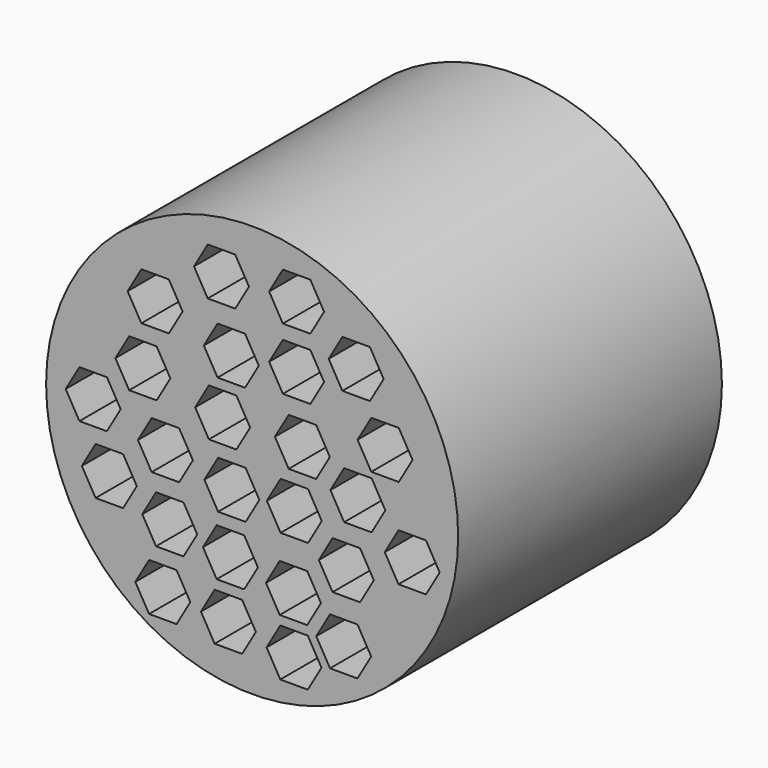
from build123d import *

# Parameters (mm, degrees)
F0_R     = 47.625
F1_DEPTH = 76.2
F3_DEPTH = 76.201


with BuildPart() as f1:
    # F0 (on Front) → F1 (new body)
    with BuildSketch(Plane.XZ):
        Circle(F0_R)
    extrude(amount=F1_DEPTH)

    # F2 (on face) → F3 (cut, through all)
    with BuildSketch(Plane.XZ.offset(76.2)):
        Polygon((-16.073533, 25.021508), (-19.248533, 30.52077), (-25.598533, 30.52077), (-28.773533, 25.021508), (-25.598533, 19.522247), (-19.248533, 19.522247), align=None)
        Polygon((-0.733869, 35.056195), (-3.908869, 40.555456), (-10.258869, 40.555456), (-13.433869, 35.056195), (-10.258869, 29.556934), (-3.908869, 29.556934), align=None)
        Polygon((16.633373, 35.590573), (13.458373, 41.089834), (7.108373, 41.089834), (3.933373, 35.590573), (7.108373, 30.091312), (13.458373, 30.091312), align=None)
        Polygon((1.537231, 19.692863), (-1.637769, 25.192124), (-7.987769, 25.192124), (-11.162769, 19.692863), (-7.987769, 14.193602), (-1.637769, 14.193602), align=None)
        Polygon((16.633373, 21.295993), (13.458373, 26.795255), (7.108373, 26.795255), (3.933373, 21.295993), (7.108373, 15.796732), (13.458373, 15.796732), align=None)
        Polygon((30.393575, 26.372573), (27.218575, 31.871834), (20.868575, 31.871834), (17.693575, 26.372573), (20.868575, 20.873312), (27.218575, 20.873312), align=None)
        Polygon((37.073285, 12.077994), (33.898285, 17.577256), (27.548285, 17.577256), (24.373285, 12.077994), (27.548285, 6.578733), (33.898285, 6.578733), align=None)
        Polygon((17.969316, 6.467039), (14.794316, 11.9663), (8.444316, 11.9663), (5.269316, 6.467039), (8.444316, 0.967778), (14.794316, 0.967778), align=None)
        Polygon((-0.466681, 6.467039), (-3.641681, 11.9663), (-9.991681, 11.9663), (-13.166681, 6.467039), (-9.991681, 0.967778), (-3.641681, 0.967778), align=None)
        Polygon((-18.902677, 10.474864), (-22.077677, 15.974126), (-28.427677, 15.974126), (-31.602677, 10.474864), (-28.427677, 4.975603), (-22.077677, 4.975603), align=None)
        Polygon((-30.391778, 0.455301), (-33.566778, 5.954563), (-39.916778, 5.954563), (-43.091778, 0.455301), (-39.916778, -5.04396), (-33.566778, -5.04396), align=None)
        Polygon((-26.65114, -13.972871), (-29.82614, -8.47361), (-36.17614, -8.47361), (-39.35114, -13.972871), (-36.17614, -19.472132), (-29.82614, -19.472132), align=None)
        Polygon((-13.692505, -4.487684), (-16.867505, 1.011578), (-23.217505, 1.011578), (-26.392505, -4.487684), (-23.217505, -9.986945), (-16.867505, -9.986945), align=None)
        Polygon((1.670825, -7.56035), (-1.504175, -2.061088), (-7.854175, -2.061088), (-11.029175, -7.56035), (-7.854175, -13.059611), (-1.504175, -13.059611), align=None)
        Polygon((16.098997, -7.159568), (12.923997, -1.660306), (6.573997, -1.660306), (3.398997, -7.159568), (6.573997, -12.658829), (12.923997, -12.658829), align=None)
        Polygon((30.794357, -0.21267), (27.619357, 5.286592), (21.269357, 5.286592), (18.094357, -0.21267), (21.269357, -5.711931), (27.619357, -5.711931), align=None)
        Polygon((43.35221, -8.762698), (40.17721, -3.263437), (33.82721, -3.263437), (30.65221, -8.762698), (33.82721, -14.261959), (40.17721, -14.261959), align=None)
        Polygon((28.122474, -15.308812), (24.947474, -9.809551), (18.597474, -9.809551), (15.422474, -15.308812), (18.597474, -20.808074), (24.947474, -20.808074), align=None)
        Polygon((-12.688582, -19.25737), (-15.863582, -13.758108), (-22.213582, -13.758108), (-25.388582, -19.25737), (-22.213582, -24.756631), (-15.863582, -24.756631), align=None)
        Polygon((1.338806, -21.394878), (-1.836194, -15.895617), (-8.186194, -15.895617), (-11.361194, -21.394878), (-8.186194, -26.894139), (-1.836194, -26.894139), align=None)
        Polygon((15.900572, -23.933166), (12.725572, -18.433905), (6.375572, -18.433905), (3.200572, -23.933166), (6.375572, -29.432427), (12.725572, -29.432427), align=None)
        Polygon((0.865366, -34.677781), (-2.309634, -29.17852), (-8.659634, -29.17852), (-11.834634, -34.677781), (-8.659634, -40.177042), (-2.309634, -40.177042), align=None)
        Polygon((-14.291712, -33.551947), (-17.466712, -28.052686), (-23.816712, -28.052686), (-26.991712, -33.551947), (-23.816712, -39.051209), (-17.466712, -39.051209), align=None)
        Polygon((27.523267, -31.013658), (24.348267, -25.514396), (17.998267, -25.514396), (14.823267, -31.013658), (17.998267, -36.512919), (24.348267, -36.512919), align=None)
        Polygon((16.034166, -37.025397), (12.859166, -31.526136), (6.509166, -31.526136), (3.334166, -37.025397), (6.509166, -42.524658), (12.859166, -42.524658), align=None)
    extrude(amount=-F3_DEPTH, mode=Mode.SUBTRACT)


solid = f1.part
